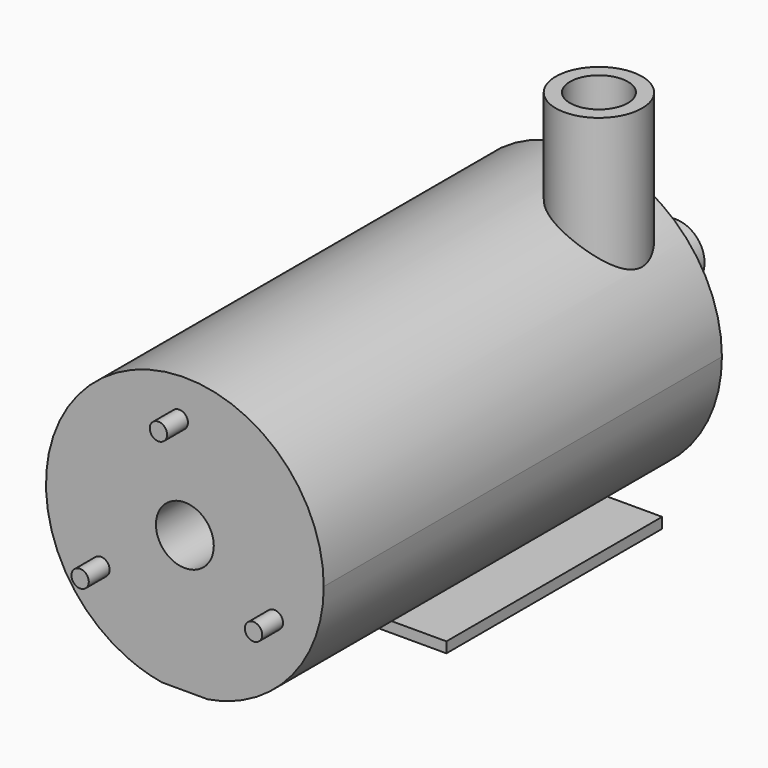
from build123d import *

# Parameters (mm, degrees)
F1_R     = 2.5
F2_DEPTH = 43
F3_START = 4.4
F3_DEPTH = 23.3
F4_R     = 3.725
F4_R_2   = 2.5
F5_DEPTH = 19.942721352
F6_R     = 0.75
F7_DEPTH = 2.25
F8_DEPTH = 10


with BuildPart() as f2:
    # F1 (on Front) → F2 (new body)
    with BuildSketch(Plane.XZ):
        with BuildLine():
            ThreePointArc((4.9722086055, -10.921407491), (10.0912462874, -6.4935928705), (12, 0))
            ThreePointArc((12, 0), (-6.4935928705, 10.0912462874), (-4.9722086055, -10.921407491))
            Line((-4.9722086055, -10.921407491), (4.9722086055, -10.921407491))
        make_face()
        Circle(F1_R, mode=Mode.SUBTRACT)
        with BuildLine():
            Line((4.9722086055, -10.921407491), (-4.9722086055, -10.921407491))
            ThreePointArc((-4.9722086055, -10.921407491), (-3.5069378946, -11.4761224551), (-1.9818854132, -11.8352072313))
            Line((-1.9818854132, -11.8352072313), (1.9818854132, -11.8352072313))
            ThreePointArc((1.9818854132, -11.8352072313), (3.5069378946, -11.4761224551), (4.9722086055, -10.921407491))
        make_face()
    extrude(amount=F2_DEPTH)

    # F1 (on Front) → F3 (join)
    with BuildSketch(Plane.XZ.offset(F3_START)):
        with BuildLine():
            ThreePointArc((-1.9818854132, -11.8352072313), (-3.5069378946, -11.4761224551), (-4.9722086055, -10.921407491))
            Line((-4.9722086055, -10.921407491), (-10.0521799177, -10.921407491))
            Line((-10.0521799177, -10.921407491), (-10.0521799177, -11.8352072313))
            Line((-10.0521799177, -11.8352072313), (-1.9818854132, -11.8352072313))
        make_face()
        with BuildLine():
            Line((10.3560099378, -10.921407491), (4.9722086055, -10.921407491))
            ThreePointArc((4.9722086055, -10.921407491), (3.5069378946, -11.4761224551), (1.9818854132, -11.8352072313))
            Line((1.9818854132, -11.8352072313), (10.3560099378, -11.8352072313))
            Line((10.3560099378, -11.8352072313), (10.3560099378, -10.921407491))
        make_face()
        with BuildLine():
            Line((4.9722086055, -10.921407491), (-4.9722086055, -10.921407491))
            ThreePointArc((-4.9722086055, -10.921407491), (-3.5069378946, -11.4761224551), (-1.9818854132, -11.8352072313))
            Line((-1.9818854132, -11.8352072313), (1.9818854132, -11.8352072313))
            ThreePointArc((1.9818854132, -11.8352072313), (3.5069378946, -11.4761224551), (4.9722086055, -10.921407491))
        make_face()
    extrude(amount=F3_DEPTH)

    # F4 (on Top) → F5 (join, through all)
    with BuildSketch(Plane.XY):
        with Locations((5.3245240537, -4.937)):
            Circle(F4_R)
        with Locations((5.3245240537, -4.937)):
            Circle(F4_R_2, mode=Mode.SUBTRACT)
    extrude(amount=F5_DEPTH)

    # F6 (on face) → F7 (join)
    with BuildSketch(Plane.XZ.offset(43)):
        with Locations((-0.4834350257, 8.65)):
            Circle(F6_R)
        with Locations((-7.2494022299, -4.7436670133)):
            Circle(F6_R)
        with Locations((7.7328372556, -3.9063329867)):
            Circle(F6_R)
    extrude(amount=F7_DEPTH)


with BuildPart() as f8:
    # F1 (on Front) → F8 (new body)
    with BuildSketch(Plane.XZ):
        Circle(F1_R)
    extrude(amount=-F8_DEPTH)


solid = Compound([f2.part, f8.part])
